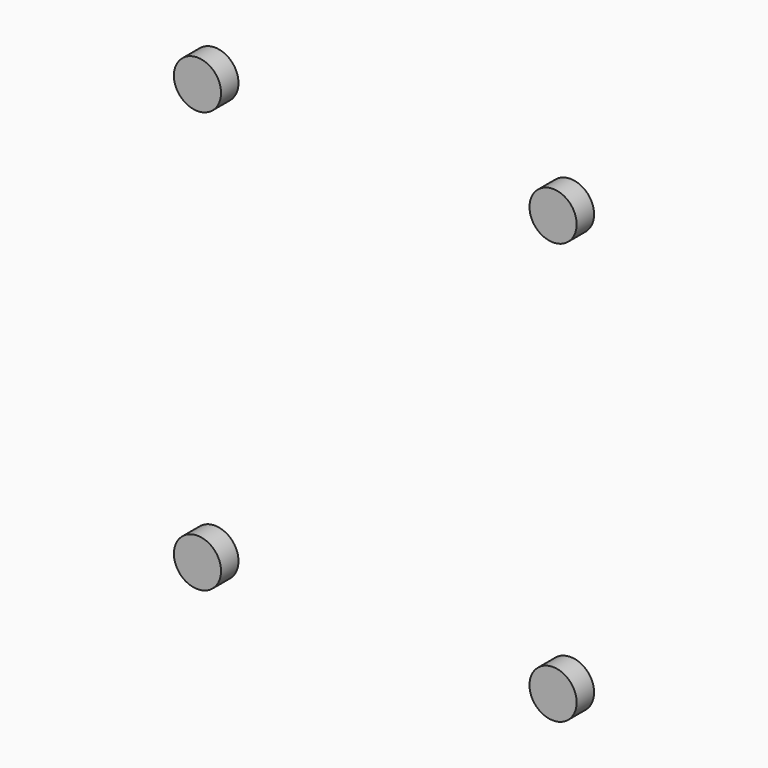
from build123d import *

# Parameters (mm, degrees)
CYLINDER003_R     = 3.25
CYLINDER003_DEPTH = 3
CYLINDER002_R     = 3.25
CYLINDER002_DEPTH = 3
CYLINDER001_R     = 3.25
CYLINDER001_DEPTH = 3
CYLINDER_R        = 3.25
CYLINDER_DEPTH    = 3


with BuildPart() as cylinder003:
    # Cylinder003 → Cylinder003 (new body)
    with BuildSketch(Plane(origin=(63.5, -7, 3.5), x_dir=(1, 0, 0), z_dir=(0, 1, 0))):
        Circle(CYLINDER003_R)
    extrude(amount=CYLINDER003_DEPTH)


with BuildPart() as fusion007:
    # Cylinder002 → Cylinder002 (new body)
    with BuildSketch(Plane(origin=(14.5, -7, 3.5), x_dir=(1, 0, 0), z_dir=(0, 1, 0))):
        Circle(CYLINDER002_R)
    extrude(amount=CYLINDER002_DEPTH)

    # Fusion007: union Cylinder003
    add(cylinder003.part)


with BuildPart() as fusion007_1:
    # Fusion007 placement: moved
    add(fusion007.part.moved(Location((0, 0, 58))))


with BuildPart() as cylinder001:
    # Cylinder001 → Cylinder001 (new body)
    with BuildSketch(Plane(origin=(63.5, -7, 3.5), x_dir=(1, 0, 0), z_dir=(0, 1, 0))):
        Circle(CYLINDER001_R)
    extrude(amount=CYLINDER001_DEPTH)


with BuildPart() as fusion008:
    # Cylinder → Cylinder (new body)
    with BuildSketch(Plane(origin=(14.5, -7, 3.5), x_dir=(1, 0, 0), z_dir=(0, 1, 0))):
        Circle(CYLINDER_R)
    extrude(amount=CYLINDER_DEPTH)

    # Fusion006: union Cylinder001
    add(cylinder001.part)

    # Fusion008: union Fusion007
    add(fusion007_1.part)


with BuildPart() as fusion008_1:
    # Fusion008 placement: moved
    add(fusion008.part.moved(Location((0.1, 0, 0))))


solid = fusion008_1.part
